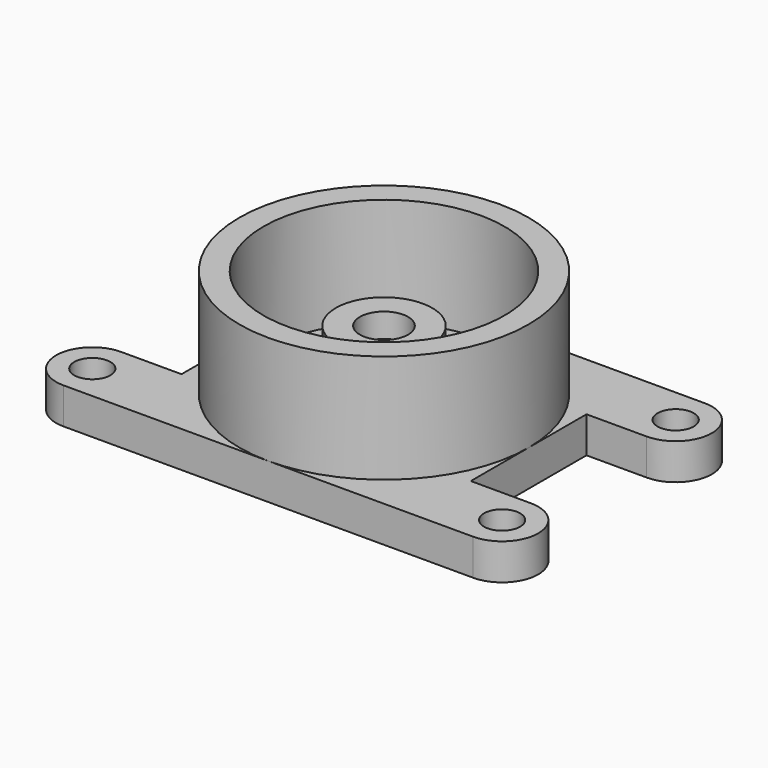
from build123d import *

# Parameters (mm, degrees)
F3_DEPTH = 19.05


with BuildPart() as f1:
    # F0 (on Front) → F1 (revolve)
    with BuildSketch(Plane.XZ):
        Polygon((-76.2, 0), (-6.35, 0), (-6.35, 38.1), (-12.7, 38.1), (-12.7, 50.8), (-25.4, 50.8), (-25.4, 19.05), (-63.5, 19.05), (-63.5, 76.2), (-76.2, 76.2), align=None)
    revolve(axis=Axis((0, 0, 34.0018123388), (0, 0, 1)))

    # F2 (on Top) → F3 (join)
    with BuildSketch(Plane.XY):
        with BuildLine():
            ThreePointArc((-76.2, 0), (-53.8815367264, 53.8815367264), (0, 76.2))
            Line((0, 76.2), (-107.95, 76.2))
            Line((-107.95, 76.2), (-107.95, 66.675))
            ThreePointArc((-107.95, 66.675), (-101.2148079092, 63.8851920908), (-98.425, 57.15))
            ThreePointArc((-98.425, 57.15), (-101.2148079092, 50.4148079092), (-107.95, 47.625))
            Line((-107.95, 47.625), (-107.95, 38.1))
            Line((-107.95, 38.1), (-76.2, 38.1))
            Line((-76.2, 38.1), (-76.2, 0))
        make_face()
        with BuildLine():
            Line((-107.95, 66.675), (-107.95, 76.2))
            ThreePointArc((-107.95, 76.2), (-127, 57.15), (-107.95, 38.1))
            Line((-107.95, 38.1), (-107.95, 47.625))
            ThreePointArc((-107.95, 47.625), (-117.475, 57.15), (-107.95, 66.675))
        make_face()
        with BuildLine():
            Line((-107.95, -76.2), (0, -76.2))
            ThreePointArc((0, -76.2), (-53.8815367264, -53.8815367264), (-76.2, 0))
            Line((-76.2, 0), (-76.2, -38.1))
            Line((-76.2, -38.1), (-107.95, -38.1))
            Line((-107.95, -38.1), (-107.95, -47.625))
            ThreePointArc((-107.95, -47.625), (-101.2148079092, -50.4148079092), (-98.425, -57.15))
            ThreePointArc((-98.425, -57.15), (-101.2148079092, -63.8851920908), (-107.95, -66.675))
            Line((-107.95, -66.675), (-107.95, -76.2))
        make_face()
        with BuildLine():
            ThreePointArc((-107.95, -38.1), (-127, -57.15), (-107.95, -76.2))
            Line((-107.95, -76.2), (-107.95, -66.675))
            ThreePointArc((-107.95, -66.675), (-117.475, -57.15), (-107.95, -47.625))
            Line((-107.95, -47.625), (-107.95, -38.1))
        make_face()
        with BuildLine():
            Line((76.2, -38.1), (76.2, 0))
            ThreePointArc((76.2, 0), (53.8815367264, -53.8815367264), (0, -76.2))
            Line((0, -76.2), (107.95, -76.2))
            Line((107.95, -76.2), (107.95, -66.675))
            ThreePointArc((107.95, -66.675), (98.425, -57.15), (107.95, -47.625))
            Line((107.95, -47.625), (107.95, -38.1))
            Line((107.95, -38.1), (76.2, -38.1))
        make_face()
        with BuildLine():
            Line((107.95, -66.675), (107.95, -76.2))
            ThreePointArc((107.95, -76.2), (127, -57.15), (107.95, -38.1))
            Line((107.95, -38.1), (107.95, -47.625))
            ThreePointArc((107.95, -47.625), (114.6851920908, -50.4148079092), (117.475, -57.15))
            ThreePointArc((117.475, -57.15), (114.6851920908, -63.8851920908), (107.95, -66.675))
        make_face()
        with BuildLine():
            ThreePointArc((0, 76.2), (53.8815367264, 53.8815367264), (76.2, 0))
            Line((76.2, 0), (76.2, 38.1))
            Line((76.2, 38.1), (107.95, 38.1))
            Line((107.95, 38.1), (107.95, 47.625))
            ThreePointArc((107.95, 47.625), (98.425, 57.15), (107.95, 66.675))
            Line((107.95, 66.675), (107.95, 76.2))
            Line((107.95, 76.2), (0, 76.2))
        make_face()
        with BuildLine():
            ThreePointArc((107.95, 38.1), (127, 57.15), (107.95, 76.2))
            Line((107.95, 76.2), (107.95, 66.675))
            ThreePointArc((107.95, 66.675), (114.6851920908, 63.8851920908), (117.475, 57.15))
            ThreePointArc((117.475, 57.15), (114.6851920908, 50.4148079092), (107.95, 47.625))
            Line((107.95, 47.625), (107.95, 38.1))
        make_face()
    extrude(amount=F3_DEPTH)


solid = f1.part
